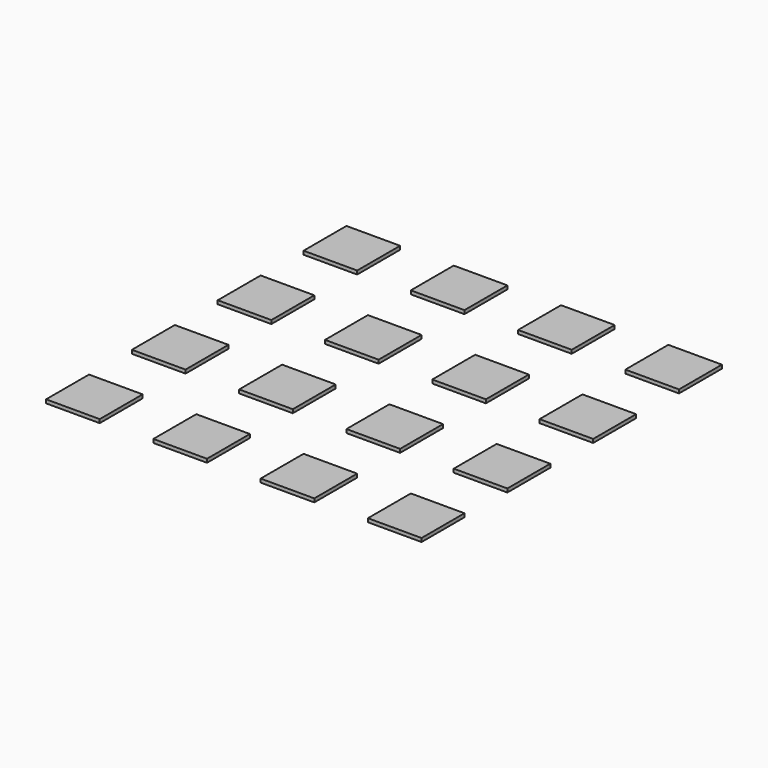
from build123d import *

# Parameters (mm, degrees)
SKETCH018_W      = 30
SKETCH018_H      = 30
PAD004_DEPTH     = 2
ARRAY006_X_COUNT = 4
ARRAY006_X_PITCH = 60
ARRAY006_Y_COUNT = 4
ARRAY006_Y_PITCH = 60


with BuildPart() as part:
    # Sketch018 → Pad004 (new body)
    with BuildSketch(Plane.XY):
        with Locations((30, 30)):
            Rectangle(SKETCH018_W, SKETCH018_H)
    extrude(amount=-PAD004_DEPTH)

    # Array006 X: part ×4


with BuildPart() as part_1:
    add(part.part)
    with Locations(*[(i * ARRAY006_X_PITCH, 0, 0) for i in range(1, ARRAY006_X_COUNT)]):
        add(part.part)

    # Array006 Y: part ×4


with BuildPart() as part_2:
    add(part_1.part)
    with Locations(*[(0, i * ARRAY006_Y_PITCH, 0) for i in range(1, ARRAY006_Y_COUNT)]):
        add(part_1.part)


solid = part_2.part
